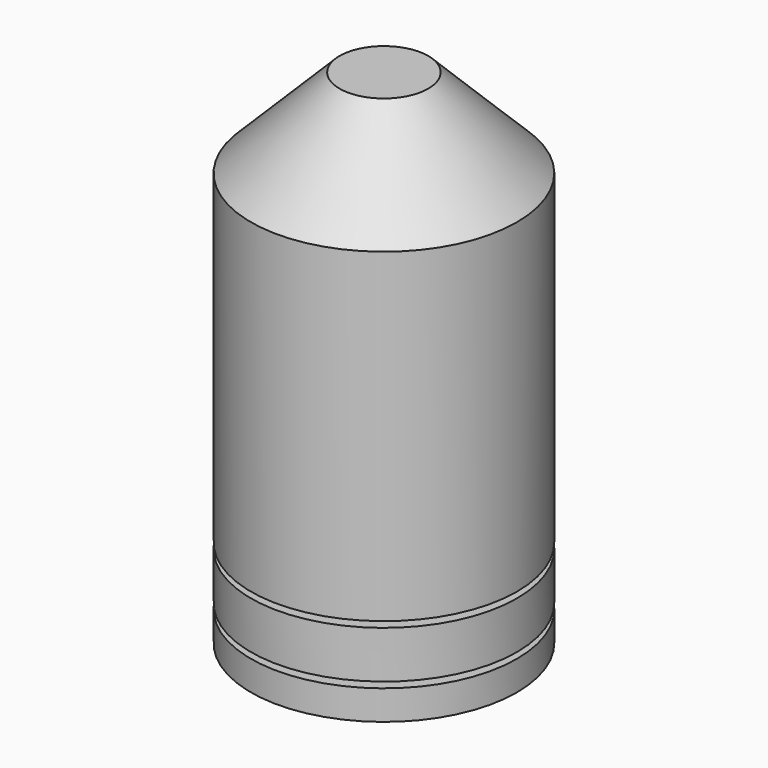
from build123d import *

# Parameters (mm, degrees)
F0_R     = 1.143
F1_DEPTH = 4.318
F4_R     = 1.1557
F4_R_2   = 1.016
F5_DEPTH = 0.0508
F6_R     = 1.1557
F6_R_2   = 1.016
F7_DEPTH = 0.0508
F8_SIZE  = 0.762


with BuildPart() as f1:
    # F0 (on Top) → F1 (new body)
    with BuildSketch(Plane.XY):
        Circle(F0_R)
    extrude(amount=F1_DEPTH)

    # F4 (on offset) → F5 (cut)
    with BuildSketch(Plane.XY.offset(0.254)):
        Circle(F4_R)
        Circle(F4_R_2, mode=Mode.SUBTRACT)
    extrude(amount=F5_DEPTH, mode=Mode.SUBTRACT)

    # F6 (on offset) → F7 (cut)
    with BuildSketch(Plane.XY.offset(0.762)):
        Circle(F6_R)
        Circle(F6_R_2, mode=Mode.SUBTRACT)
    extrude(amount=-F7_DEPTH, mode=Mode.SUBTRACT)

    # F8
    f8_edges = [f1.edges().sort_by_distance(p)[0] for p in [
        (-1.143, 0, 4.318),
    ]]
    chamfer(f8_edges, length=F8_SIZE)


solid = f1.part
